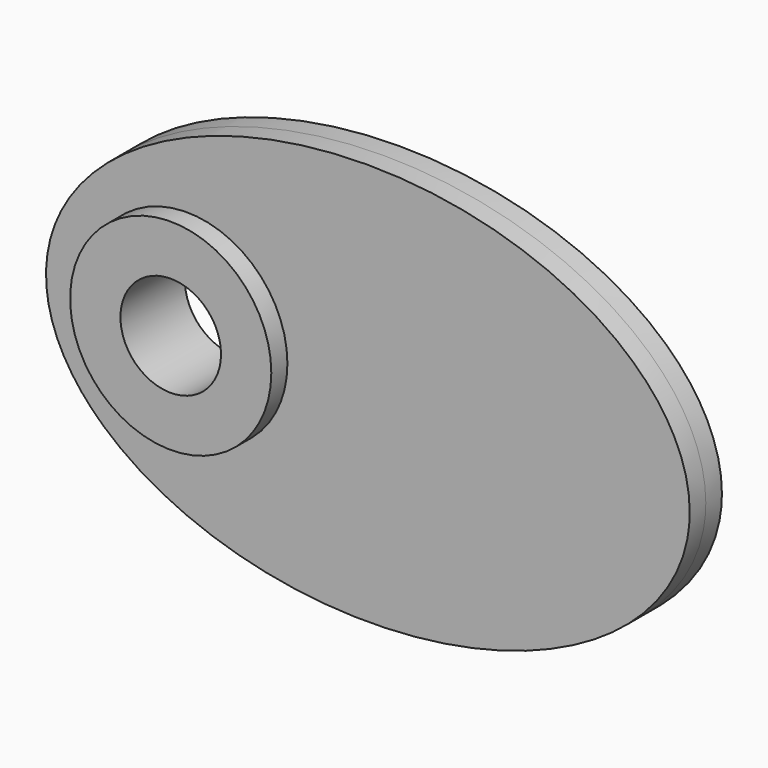
from build123d import *

# Parameters (mm, degrees)
F0_R     = 31.75
F0_R_2   = 15.875
F1_DEPTH = 12.7
F2_R     = 15.875
F3_DEPTH = 6.35


with BuildPart() as f1:
    # F0 (on Front) → F1 (new body, symmetric)
    with BuildSketch(Plane.XZ):
        Circle(F0_R)
        Circle(F0_R_2, mode=Mode.SUBTRACT)
    extrude(amount=F1_DEPTH, both=True)

    # F2 (on Front) → F3 (join, symmetric)
    with BuildSketch(Plane.XZ):
        with BuildLine():
            add(Edge.make_bspline(
                [(158.75, 0), (158.75, 109.985226), (6.35, 54.992613), (-146.05, 0), (6.35, -54.992613), (158.75, -109.985226), (158.75, 0)],
                knots=[0, 0, 0, 2.094395, 2.094395, 4.18879, 4.18879, 6.283185, 6.283185, 6.283185], degree=2, weights=[1, 0.5, 1, 0.5, 1, 0.5, 1]))
        make_face()
        Circle(F2_R, mode=Mode.SUBTRACT)
    extrude(amount=F3_DEPTH, both=True)


solid = f1.part
